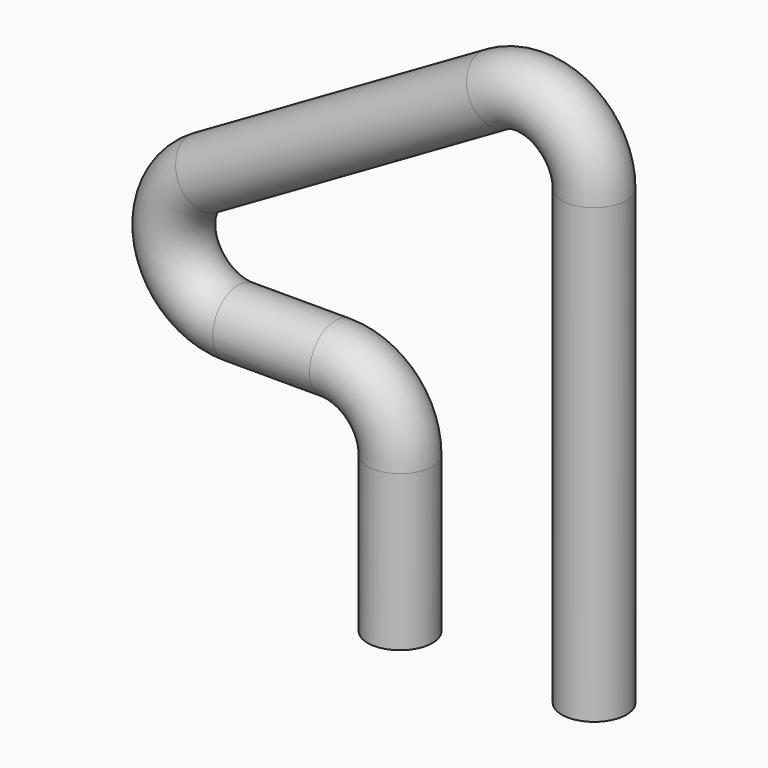
from build123d import *

# Parameters (mm, degrees)
F2_R = 6.35


with BuildPart() as f3:
    # F3: sweep along a path in F0
    with BuildLine(Plane.XZ) as f3_path:
        Line((0, 0), (0, 88.9))
        ThreePointArc((0, 88.9), (-6.35, 99.8985226281), (-19.05, 99.8985226281))
        Line((-19.05, 99.8985226281), (-76.1846965395, 66.9117902009))
        ThreePointArc((-76.1846965395, 66.9117902009), (-82.1019545334, 52.6262657001), (-69.8346965395, 43.2132675729))
        Line((-69.8346965395, 43.2132675729), (-50.8, 43.2132675729))
        ThreePointArc((-50.8, 43.2132675729), (-41.8197438789, 39.4935236939), (-38.1, 30.5132675729))
        Line((-38.1, 30.5132675729), (-38.1, 0))
    # F2 (on line) → F3 (sweep)
    with BuildSketch(Plane.XY):
        Circle(F2_R)
    sweep(path=f3_path.line)


solid = f3.part
